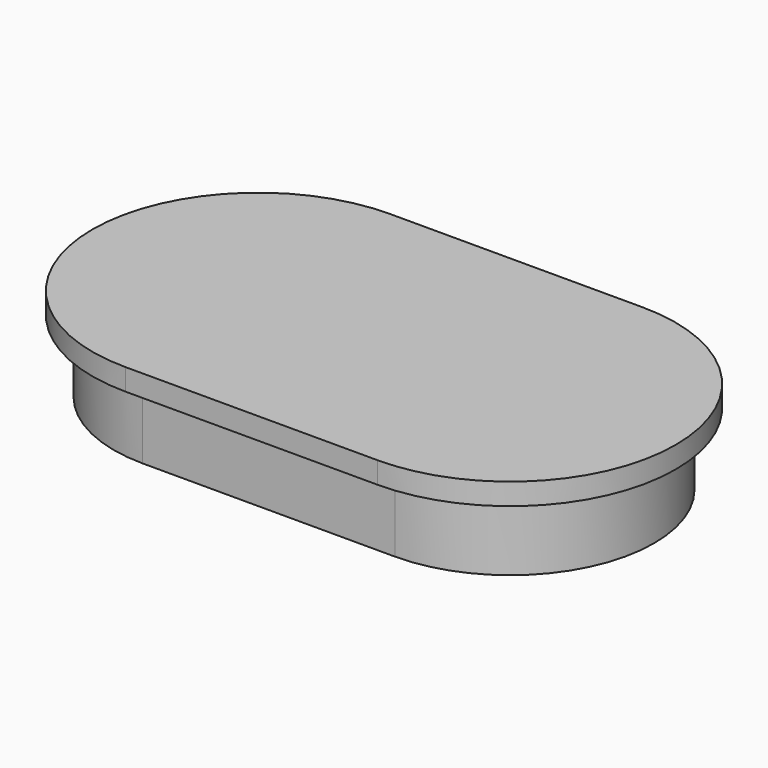
from build123d import *

# Parameters (mm, degrees)
F1_DEPTH = 12.7
F3_DEPTH = 3.81


with BuildPart() as f1:
    # F0 (on Top) → F1 (new body)
    with BuildSketch(Plane.XY):
        with BuildLine():
            ThreePointArc((22.225, -25.4), (47.625, 0), (22.225, 25.4))
            Line((22.225, 25.4), (-22.225, 25.4))
            ThreePointArc((-22.225, 25.4), (-47.625, 0), (-22.225, -25.4))
            Line((-22.225, -25.4), (22.225, -25.4))
        make_face()
        with BuildLine():
            Line((-22.225, 21.59), (22.225, 21.59))
            ThreePointArc((22.225, 21.59), (43.815, 0), (22.225, -21.59))
            Line((22.225, -21.59), (-22.225, -21.59))
            ThreePointArc((-22.225, -21.59), (-43.815, 0), (-22.225, 21.59))
        make_face(mode=Mode.SUBTRACT)
    extrude(amount=F1_DEPTH)

    # F2 (on face) → F3 (join)
    with BuildSketch(Plane.XY.offset(12.7)):
        with BuildLine():
            ThreePointArc((22.225, -29.21), (51.435, 0), (22.225, 29.21))
            Line((22.225, 29.21), (-22.225, 29.21))
            ThreePointArc((-22.225, 29.21), (-51.435, 0), (-22.225, -29.21))
            Line((-22.225, -29.21), (22.225, -29.21))
        make_face()
    extrude(amount=F3_DEPTH)


solid = f1.part
